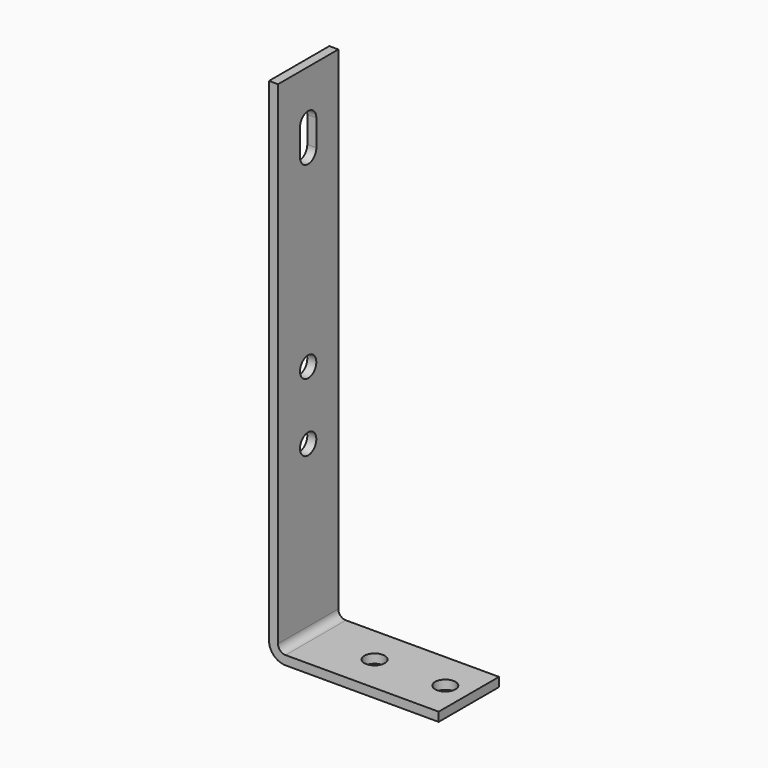
from build123d import *

# Parameters (mm, degrees)
F1_DEPTH = 25.4
F2_R     = 3.429
F3_DEPTH = 82.551
F4_R     = 3.429
F5_DEPTH = 171.451
F6_W     = 25.4
F6_H     = 25.4
F6_R     = 3.429
F7_DEPTH = 171.451
F8_R     = 3.429
F9_DEPTH = 171.451


with BuildPart() as f1:
    # F0 (on Front) → F1 (new body)
    with BuildSketch(Plane.XZ):
        with BuildLine():
            Line((3.03784, 171.45), (0, 171.45))
            Line((0, 171.45), (0, 5.57784))
            ThreePointArc((0, 5.57784), (1.633712, 1.633712), (5.57784, 0))
            Line((5.57784, 0), (82.55, 0))
            Line((82.55, 0), (82.55, 3.03784))
            Line((82.55, 3.03784), (5.57784, 3.03784))
            ThreePointArc((5.57784, 3.03784), (3.781789, 3.781789), (3.03784, 5.57784))
            Line((3.03784, 5.57784), (3.03784, 171.45))
        make_face()
    extrude(amount=F1_DEPTH)

    # F2 (on face) → F3 (cut, through all)
    with BuildSketch(Plane(origin=(0, 0, 0), x_dir=(0, -1, 0), z_dir=(-1, 0, 0))):
        with BuildLine():
            ThreePointArc((16.129, 154.94), (12.7, 158.369), (9.271, 154.94))
            Line((9.271, 154.94), (9.271, 146.05))
            ThreePointArc((9.271, 146.05), (12.7, 142.621), (16.129, 146.05))
            Line((16.129, 146.05), (16.129, 154.94))
        make_face()
        with Locations((12.7, 82.55)):
            Circle(F2_R)
        with Locations((12.7, 59.69)):
            Circle(F2_R)
    extrude(amount=-F3_DEPTH, mode=Mode.SUBTRACT)

    # F4 (on face) → F5 (cut, through all)
    with BuildSketch(Plane(origin=(0, 0, 0), x_dir=(1, 0, 0), z_dir=(0, 0, -1))):
        with Locations((25.4, 12.7)):
            Circle(F4_R)
        with Locations((69.85, 12.7)):
            Circle(F4_R)
    extrude(amount=-F5_DEPTH, mode=Mode.SUBTRACT)

    # F6 (on face) → F7 (cut, through all)
    with BuildSketch(Plane(origin=(0, 0, 0), x_dir=(1, 0, 0), z_dir=(0, 0, -1))):
        with Locations((69.85, 12.7)):
            Rectangle(F6_W, F6_H)
        with Locations((69.85, 12.7)):
            Circle(F6_R, mode=Mode.SUBTRACT)
    extrude(amount=-F7_DEPTH, mode=Mode.SUBTRACT)

    # F8 (on face) → F9 (cut, through all)
    with BuildSketch(Plane(origin=(0, 0, 0), x_dir=(1, 0, 0), z_dir=(0, 0, -1))):
        with Locations((49.2125, 12.7)):
            Circle(F8_R)
    extrude(amount=-F9_DEPTH, mode=Mode.SUBTRACT)


solid = f1.part
